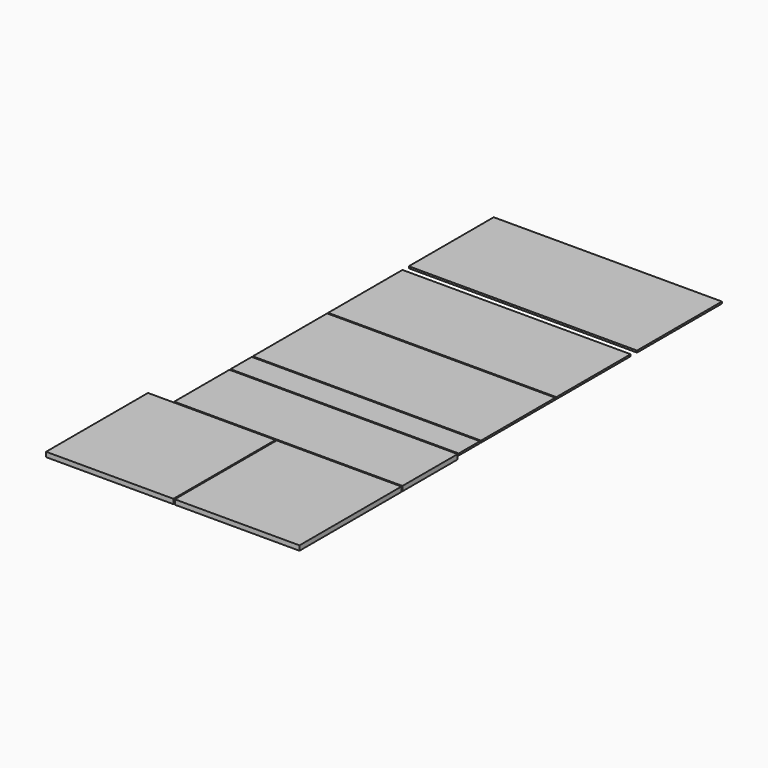
from build123d import *

# Parameters (mm, degrees)
F0_W     = 480
F0_H     = 480
F0_W_2   = 470
F0_W_3   = 860
F0_H_2   = 260
F1_DEPTH = 18
F0_H_3   = 100
F0_H_4   = 350
F0_H_5   = 400
F2_DEPTH = 7


with BuildPart() as f1:
    # F0 (on Top) → F1 (new body)
    with BuildSketch(Plane.XY):
        with Locations((-1.602795, 128.524332)):
            Rectangle(F0_W, F0_H)
        with Locations((478.397205, 128.524332)):
            Rectangle(F0_W_2, F0_H)
        with Locations((283.397205, 503.524332)):
            Rectangle(F0_W_3, F0_H_2)
    extrude(amount=-F1_DEPTH)


with BuildPart() as f2:
    # F0 (on Top) → F2 (new body)
    with BuildSketch(Plane.XY):
        with Locations((283.397205, 688.524332)):
            Rectangle(F0_W_3, F0_H_3)
        with Locations((283.397205, 918.524332)):
            Rectangle(F0_W_3, F0_H_4)
        with Locations((283.397205, 1273.524332)):
            Rectangle(F0_W_3, F0_H_4)
        with Locations((283.397205, 1678.524332)):
            Rectangle(F0_W_3, F0_H_5)
    extrude(amount=-F2_DEPTH)


solid = Compound([f1.part, f2.part])
